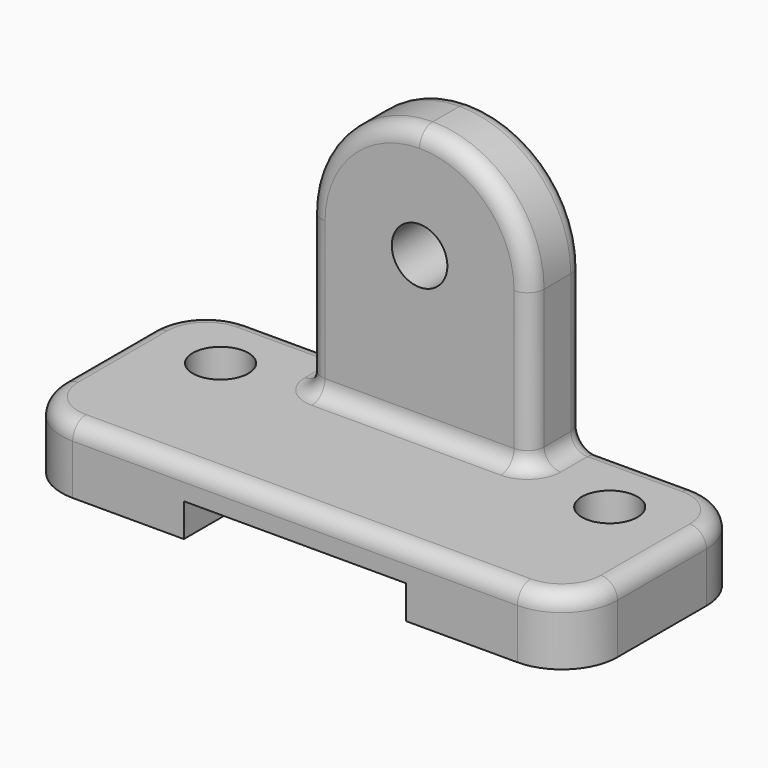
from build123d import *

# Parameters (mm, degrees)
F1_DEPTH = 12
F2_W     = 40
F2_H     = 40
F3_DEPTH = 6
F4_R     = 5
F5_DEPTH = 25
F6_R     = 5
F7_DEPTH = 12
F9_R     = 3


with BuildPart() as f1:
    # F0 (on Top) → F1 (new body)
    with BuildSketch(Plane.XY):
        with BuildLine():
            Line((40, 20), (-40, 20))
            ThreePointArc((-40, 20), (-47.0710678119, 17.0710678119), (-50, 10))
            Line((-50, 10), (-50, -10))
            ThreePointArc((-50, -10), (-47.0710678119, -17.0710678119), (-40, -20))
            Line((-40, -20), (40, -20))
            ThreePointArc((40, -20), (47.0710678119, -17.0710678119), (50, -10))
            Line((50, -10), (50, 10))
            ThreePointArc((50, 10), (47.0710678119, 17.0710678119), (40, 20))
        make_face()
    extrude(amount=F1_DEPTH)

    # F2 (on face) → F3 (cut)
    with BuildSketch(Plane(origin=(0, 0, 0), x_dir=(1, 0, 0), z_dir=(0, 0, -1))):
        Rectangle(F2_W, F2_H)
    extrude(amount=-F3_DEPTH, mode=Mode.SUBTRACT)

    # F4 (on face) → F5 (cut)
    with BuildSketch(Plane.XY.offset(12)):
        with Locations((-35, 7)):
            Circle(F4_R)
        with Locations((35, 7)):
            Circle(F4_R)
    extrude(amount=-F5_DEPTH, mode=Mode.SUBTRACT)


with BuildPart() as f7:
    # F6 (on face) → F7 (new body)
    with BuildSketch(Plane(origin=(0, 20, 0), x_dir=(-1, 0, 0), z_dir=(0, 1, 0))):
        with BuildLine():
            Line((-20, 12), (20, 12))
            Line((20, 12), (20, 40))
            ThreePointArc((20, 40), (14.1421356237, 54.1421356237), (0, 60))
            ThreePointArc((0, 60), (-14.1421356237, 54.1421356237), (-20, 40))
            Line((-20, 40), (-20, 12))
        make_face()
        with Locations((0, 40)):
            Circle(F6_R, mode=Mode.SUBTRACT)
    extrude(amount=-F7_DEPTH)

    # F8: union F1
    add(f1.part)

    # F9
    f9_edges = [f7.edges().sort_by_distance(p)[0] for p in [
        (-20, 20, 26),
        (-20, 14, 12),
        (-30, 20, 12),
        (0, 8, 12),
        (20, 8, 26),
        (20, 14, 12),
    ]]
    fillet(f9_edges, radius=F9_R)


solid = f7.part
